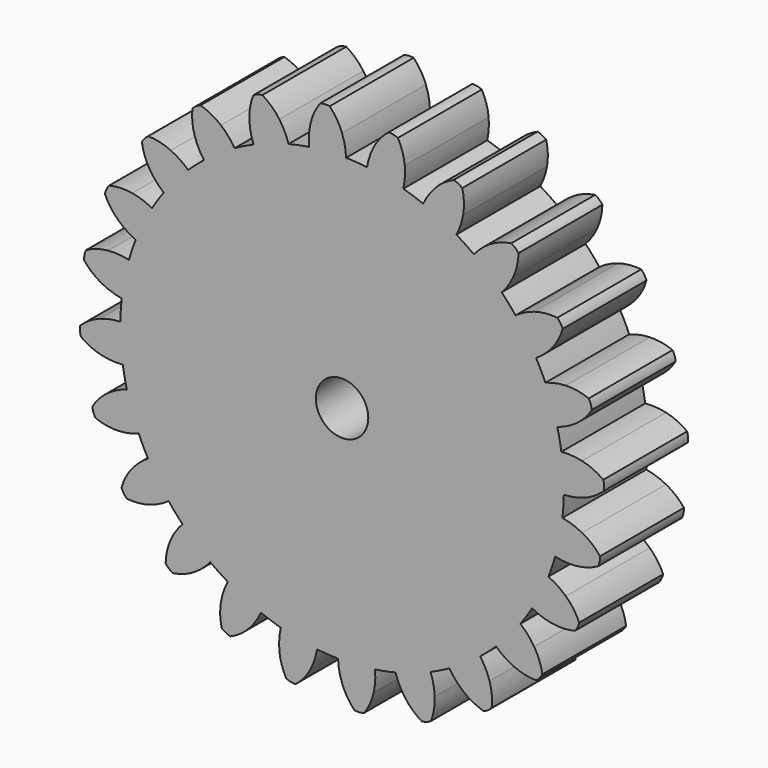
from build123d import *

# Parameters (mm, degrees)
F0_R     = 6.35
F1_DEPTH = 25.4
F2_COUNT = 24
F2_ANGLE = 345


with BuildPart() as f1:
    # F0 (on Front) → F1 (new body)
    with BuildSketch(Plane.XZ):
        with BuildLine():
            ThreePointArc((-7.9757188017, 53.1256411782), (-3.5135215054, 53.6059792153), (0.9731977694, 53.7121841587))
            ThreePointArc((0.9731977694, 53.7121841587), (0.6865353164, 56.2323070957), (0, 58.674))
            ThreePointArc((0, 58.674), (-1.2480501426, 61.206785812), (-2.9892332778, 63.4296025875))
            ThreePointArc((-2.9892332778, 63.4296025875), (-4.161542075, 63.4928625416), (-5.315564527, 63.2771267818))
            ThreePointArc((-5.315564527, 63.2771267818), (-6.7517157895, 60.8460565073), (-7.6584938023, 58.1720357962))
            ThreePointArc((-7.6584938023, 58.1720357962), (-8.0204508366, 55.6616210726), (-7.9757188017, 53.1256411782))
        make_face()
        with BuildLine():
            ThreePointArc((-7.9757188017, 53.1256411782), (-35.0534039093, -40.7087793402), (53.721, 0))
            ThreePointArc((53.721, 0), (38.329016413, 37.6408334368), (0.9731977694, 53.7121841587))
            ThreePointArc((0.9731977694, 53.7121841587), (-3.5135215054, 53.6059792153), (-7.9757188017, 53.1256411782))
        make_face()
        Circle(F0_R, mode=Mode.SUBTRACT)
    extrude(amount=F1_DEPTH)

    # F2: F1 ×24 about axis
    f2_axis = Axis((0, 0, 0), (0, 1, 0))


with BuildPart() as f1_1:
    add(f1.part)
    for i in range(1, F2_COUNT):
        add(f1.part.rotate(f2_axis, i * F2_ANGLE / (F2_COUNT - 1)))


solid = f1_1.part
